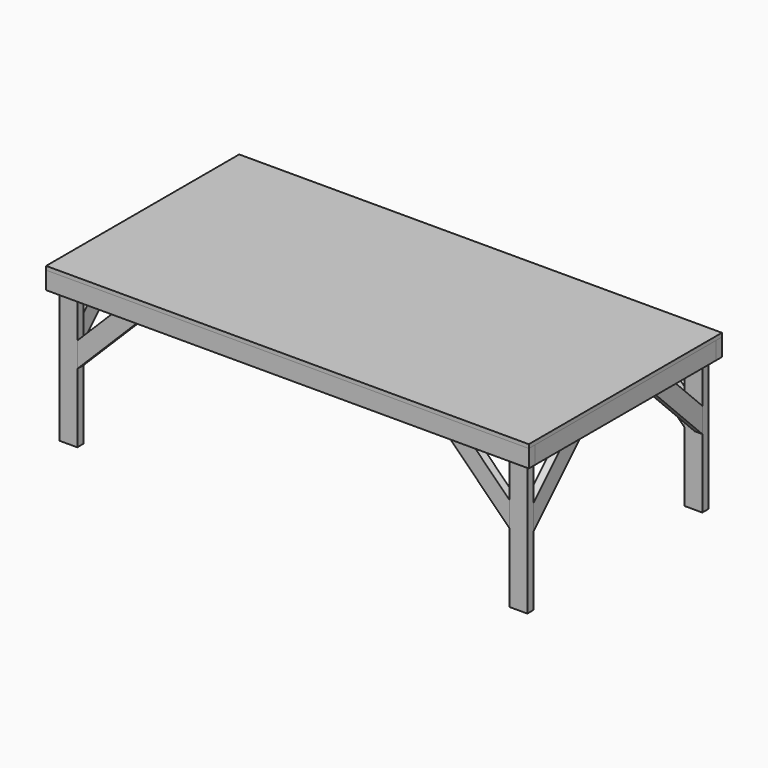
from build123d import *

# Parameters (mm, degrees)
F1_DEPTH  = 88.9
F2_DEPTH  = 88.9
F0_W      = 38.1
F0_H      = 990.6
F0_W_2    = 88.9
F0_H_2    = 38.1
F3_DEPTH  = 762
F5_W      = 2438.4
F5_H      = 1219.2
F12_DEPTH = 19.05
F7_DEPTH  = 38.1
F10_DEPTH = 38.1


with BuildPart() as f1:
    # F0 (on Top) → F1 (new body)
    with BuildSketch(Plane.XY):
        Polygon((1181.1, 571.5), (1219.2, 571.5), (1219.2, 609.6), (-1219.2, 609.6), (-1219.2, 571.5), (-1181.1, 571.5), (-1092.2, 571.5), (1092.2, 571.5), align=None)
    extrude(amount=-F1_DEPTH)


with BuildPart() as f1b:
    # F0 (on Top) → F1, piece 2 (new body)
    with BuildSketch(Plane.XY):
        Polygon((1181.1, 495.3), (1181.1, 533.4), (1092.2, 533.4), (-1092.2, 533.4), (-1181.1, 533.4), (-1181.1, 495.3), (-619.125, 495.3), (-581.025, 495.3), (-19.05, 495.3), (19.05, 495.3), (581.025, 495.3), (619.125, 495.3), align=None)
    extrude(amount=-F1_DEPTH)


with BuildPart() as f1c:
    # F0 (on Top) → F1, piece 3 (new body)
    with BuildSketch(Plane.XY):
        Polygon((1092.2, -533.4), (1181.1, -533.4), (1181.1, -495.3), (619.125, -495.3), (581.025, -495.3), (19.05, -495.3), (-19.05, -495.3), (-581.025, -495.3), (-619.125, -495.3), (-1181.1, -495.3), (-1181.1, -533.4), (-1092.2, -533.4), align=None)
    extrude(amount=-F1_DEPTH)


with BuildPart() as f1d:
    # F0 (on Top) → F1, piece 4 (new body)
    with BuildSketch(Plane.XY):
        Polygon((-1219.2, -609.6), (1219.2, -609.6), (1219.2, -571.5), (1181.1, -571.5), (1092.2, -571.5), (-1092.2, -571.5), (-1181.1, -571.5), (-1219.2, -571.5), align=None)
    extrude(amount=-F1_DEPTH)


with BuildPart() as f2:
    # F0 (on Top) → F2 (new body)
    with BuildSketch(Plane.XY):
        Polygon((-1219.2, 571.5), (-1219.2, -571.5), (-1181.1, -571.5), (-1181.1, -533.4), (-1181.1, -495.3), (-1181.1, 495.3), (-1181.1, 533.4), (-1181.1, 571.5), align=None)
    extrude(amount=-F2_DEPTH)


with BuildPart() as f2b:
    # F0 (on Top) → F2, piece 2 (new body)
    with BuildSketch(Plane.XY):
        with Locations((-600.075, 0)):
            Rectangle(F0_W, F0_H)
    extrude(amount=-F2_DEPTH)


with BuildPart() as f2c:
    # F0 (on Top) → F2, piece 3 (new body)
    with BuildSketch(Plane.XY):
        Rectangle(F0_W, F0_H)
    extrude(amount=-F2_DEPTH)


with BuildPart() as f2d:
    # F0 (on Top) → F2, piece 4 (new body)
    with BuildSketch(Plane.XY):
        with Locations((600.075, 0)):
            Rectangle(F0_W, F0_H)
    extrude(amount=-F2_DEPTH)


with BuildPart() as f2e:
    # F0 (on Top) → F2, piece 5 (new body)
    with BuildSketch(Plane.XY):
        Polygon((1181.1, -571.5), (1219.2, -571.5), (1219.2, 571.5), (1181.1, 571.5), (1181.1, 533.4), (1181.1, 495.3), (1181.1, -495.3), (1181.1, -533.4), align=None)
    extrude(amount=-F2_DEPTH)


with BuildPart() as f3:
    # F0 (on Top) → F3 (new body)
    with BuildSketch(Plane.XY):
        with Locations((-1136.65, 552.45)):
            Rectangle(F0_W_2, F0_H_2)
    extrude(amount=-F3_DEPTH)


with BuildPart() as f3b:
    # F0 (on Top) → F3, piece 2 (new body)
    with BuildSketch(Plane.XY):
        with Locations((-1136.65, -552.45)):
            Rectangle(F0_W_2, F0_H_2)
    extrude(amount=-F3_DEPTH)


with BuildPart() as f3c:
    # F0 (on Top) → F3, piece 3 (new body)
    with BuildSketch(Plane.XY):
        with Locations((1136.65, 552.45)):
            Rectangle(F0_W_2, F0_H_2)
    extrude(amount=-F3_DEPTH)


with BuildPart() as f3d:
    # F0 (on Top) → F3, piece 4 (new body)
    with BuildSketch(Plane.XY):
        with Locations((1136.65, -552.45)):
            Rectangle(F0_W_2, F0_H_2)
    extrude(amount=-F3_DEPTH)


with BuildPart() as f12:
    # F5 (on face) → F12 (new body)
    with BuildSketch(Plane.XY):
        Rectangle(F5_W, F5_H)
    extrude(amount=F12_DEPTH)


with BuildPart() as f7:
    # F6 (on face) → F7 (new body)
    with BuildSketch(Plane.XZ.offset(533.4)):
        Polygon((-804.8318041258, 0), (-1092.2, -287.3681958742), (-1092.2, -413.0917815692), (-679.1082184308, 0), align=None)
    extrude(amount=F7_DEPTH)


with BuildPart() as f7b:
    # F6 (on face) → F7, piece 2 (new body)
    with BuildSketch(Plane.XZ.offset(533.4)):
        Polygon((1092.2, -287.3681958742), (804.8318041258, 0), (679.1082184308, 0), (1092.2, -413.0917815692), align=None)
    extrude(amount=F7_DEPTH)


with BuildPart() as f8_1:
    # F8: instance of F7
    add(f7.part.mirror(Plane.XZ))


with BuildPart() as f8_2:
    # F8: instance of F7b
    add(f7b.part.mirror(Plane.XZ))


with BuildPart() as f10:
    # F9 (on face) → F10 (new body)
    with BuildSketch(Plane.YZ.offset(-1181.1)):
        Polygon((-120.3082184308, 0), (-246.0318041258, 0), (-533.4, -287.3681958742), (-533.4, -413.0917815692), align=None)
    extrude(amount=F10_DEPTH)


with BuildPart() as f10b:
    # F9 (on face) → F10, piece 2 (new body)
    with BuildSketch(Plane.YZ.offset(-1181.1)):
        Polygon((533.4, -287.3681958742), (246.0318041258, 0), (120.3082184308, 0), (533.4, -413.0917815692), align=None)
    extrude(amount=F10_DEPTH)


with BuildPart() as f11_1:
    # F11: instance of F10
    add(f10.part.mirror(Plane.YZ))


with BuildPart() as f11_2:
    # F11: instance of F10b
    add(f10b.part.mirror(Plane.YZ))


solid = Compound([f1.part, f1b.part, f1c.part, f1d.part, f2.part, f2b.part, f2c.part, f2d.part, f2e.part, f3.part, f3b.part, f3c.part, f3d.part, f12.part, f7.part, f7b.part, f8_1.part, f8_2.part, f10.part, f10b.part, f11_1.part, f11_2.part])
